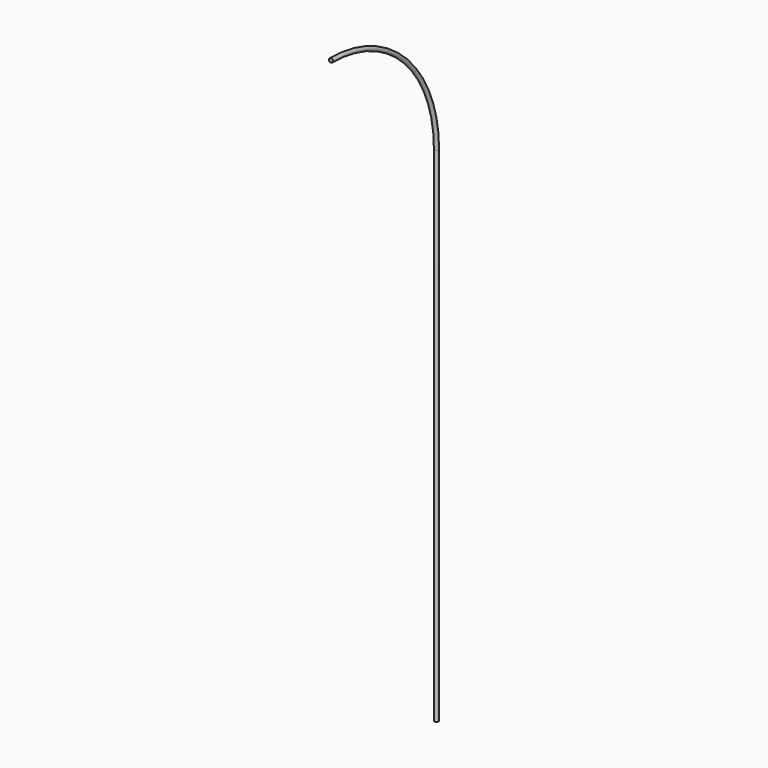
from build123d import *

# Parameters (mm, degrees)
F1_R = 0.4


with BuildPart() as f2:
    # F2: sweep along a path in F0
    with BuildLine(Plane.YZ) as f2_path:
        ThreePointArc((-26.225331, 126.225331), (-7.681222, 118.54411), (0, 100))
        Line((0, 100), (0, 0))
    # F1 (on Top) → F2 (sweep)
    with BuildSketch(Plane.XY):
        Circle(F1_R)
    sweep(path=f2_path.line)


solid = f2.part
